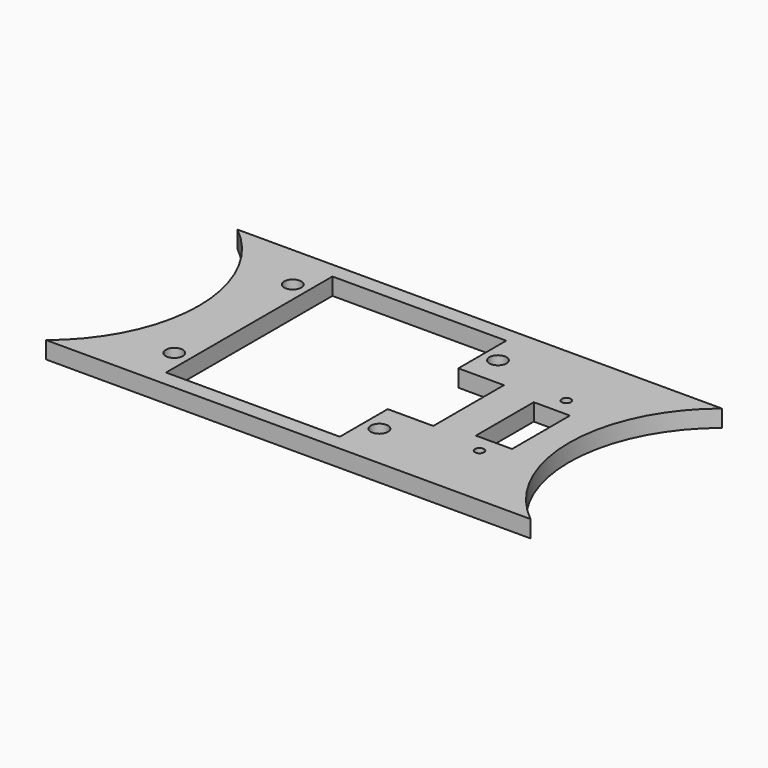
from build123d import *

# Parameters (mm, degrees)
F4_DEPTH = 3
F1_R     = 1.5
F1_W     = 6.35
F1_H     = 12.7
F1_R_2   = 0.79375
F5_DEPTH = 3.001


with BuildPart() as f4:
    # F3 (on Top) → F4 (new body)
    with BuildSketch(Plane.XY):
        with BuildLine():
            Line((-34.1, -34), (50.9, -34))
            ThreePointArc((50.9, -34), (40.899964, -13), (50.9, 8))
            Line((50.9, 8), (-34.1, 8))
            ThreePointArc((-34.1, 8), (-24.099496, -13), (-34.1, -34))
        make_face()
    extrude(amount=F4_DEPTH)

    # F1 (on Top) → F5 (cut, through all)
    with BuildSketch(Plane.XY):
        Polygon((15.25, 5.25), (-15.25, 5.25), (-15.25, -5.25), (-15.25, -20.75), (-15.25, -31.25), (15.25, -31.25), (15.25, -20.75), (23.25, -20.75), (23.25, -5.25), (15.25, -5.25), align=None)
        with Locations((-18, 0)):
            Circle(F1_R)
        with Locations((18, 0)):
            Circle(F1_R)
        with Locations((18, -26)):
            Circle(F1_R)
        with Locations((-18, -26)):
            Circle(F1_R)
        with Locations((32.775, -13)):
            Rectangle(F1_W, F1_H)
        with Locations((32.775, -22.525)):
            Circle(F1_R_2)
        with Locations((32.775, -3.475)):
            Circle(F1_R_2)
    extrude(amount=F5_DEPTH, mode=Mode.SUBTRACT)


solid = f4.part
